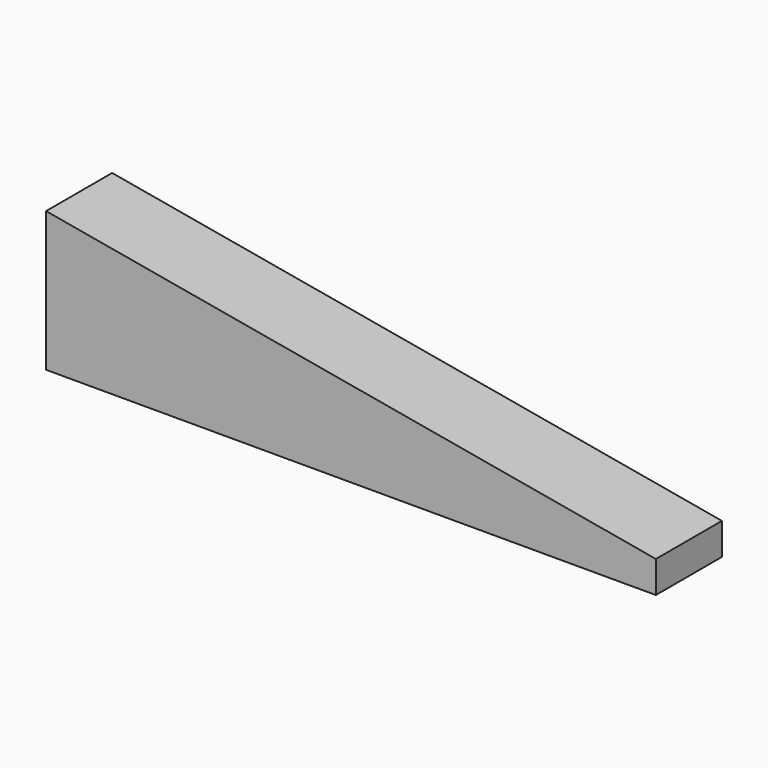
from build123d import *

# Parameters (mm, degrees)
F1_DEPTH = 41.275
F2_R     = 9.525
F3_DEPTH = 53.594


with BuildPart() as f1:
    # F0 (on Front) → F1 (new body)
    with BuildSketch(Plane.XZ):
        Polygon((0, 69.85), (0, 0), (304.8, 0), (304.8, 15.875), align=None)
    extrude(amount=-F1_DEPTH)

    # F2 (on face) → F3 (cut)
    with BuildSketch(Plane(origin=(0, 0, 0), x_dir=(0, -1, 0), z_dir=(-1, 0, 0))):
        with Locations((-21.59, 34.925)):
            Circle(F2_R)
    extrude(amount=-F3_DEPTH, mode=Mode.SUBTRACT)


solid = f1.part
